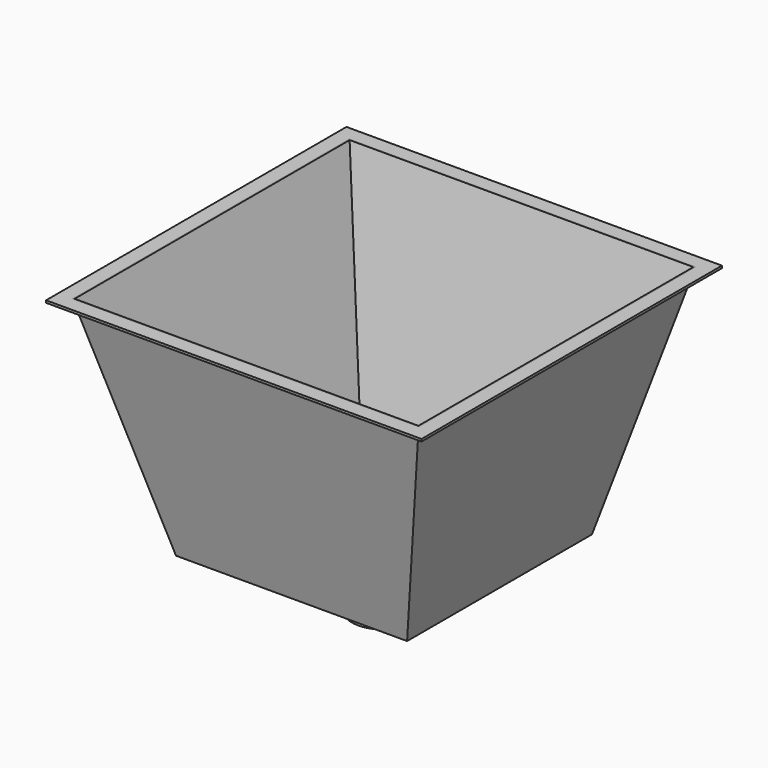
from build123d import *

# Parameters (mm, degrees)
F0_W     = 300
F0_H     = 300
F1_DEPTH = 200
F1_TAPER = 14
F2_T     = -1
F3_R     = 25.4
F4_DEPTH = 25
F5_R     = 27.94
F5_R_2   = 25.4
F6_DEPTH = 50
F7_W     = 325.4
F7_H     = 325.4
F8_DEPTH = 2


with BuildPart() as f1:
    # F0 (on Top) → F1 (new body)
    with BuildSketch(Plane.XY):
        Rectangle(F0_W, F0_H)
    extrude(amount=-F1_DEPTH, taper=F1_TAPER)

    # F2
    f2_openings = [f1.faces().sort_by_distance(p)[0] for p in [
        (0, 0, 0),
    ]]
    offset(amount=F2_T, openings=f2_openings, kind=Kind.INTERSECTION)

    # F3 (on face) → F4 (cut)
    with BuildSketch(Plane.XY.offset(-199)):
        Circle(F3_R)
    extrude(amount=-F4_DEPTH, mode=Mode.SUBTRACT)

    # F5 (on face) → F6 (join)
    with BuildSketch(Plane(origin=(0, 0, -200), x_dir=(1, 0, 0), z_dir=(0, 0, -1))):
        Circle(F5_R)
        Circle(F5_R_2, mode=Mode.SUBTRACT)
    extrude(amount=F6_DEPTH)

    # F7 (on face) → F8 (join)
    with BuildSketch(Plane.XY):
        Rectangle(F7_W, F7_H)
        Polygon((149, -150), (-150, -150), (-150, 149), (-150, 150), (150, 150), (150, -150), align=None, mode=Mode.SUBTRACT)
    extrude(amount=-F8_DEPTH)


solid = f1.part
